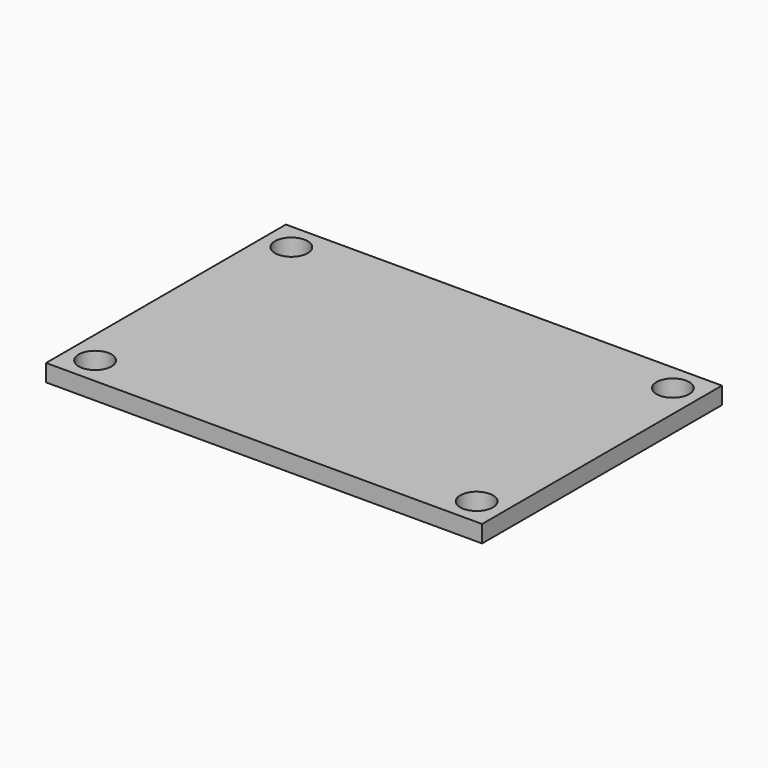
from build123d import *

# Parameters (mm, degrees)
SKETCH_W  = 40.64
SKETCH_H  = 27.94
SKETCH_R  = 1.524
PAD_DEPTH = 1.6


with BuildPart() as part:
    # Sketch → Pad (new body)
    with BuildSketch(Plane.XY):
        Rectangle(SKETCH_W, SKETCH_H)
        with Locations((-17.78, 11.43)):
            Circle(SKETCH_R, mode=Mode.SUBTRACT)
        with Locations((-17.78, -11.43)):
            Circle(SKETCH_R, mode=Mode.SUBTRACT)
        with Locations((17.78, -11.43)):
            Circle(SKETCH_R, mode=Mode.SUBTRACT)
        with Locations((17.78, 11.43)):
            Circle(SKETCH_R, mode=Mode.SUBTRACT)
    extrude(amount=PAD_DEPTH)


solid = part.part
